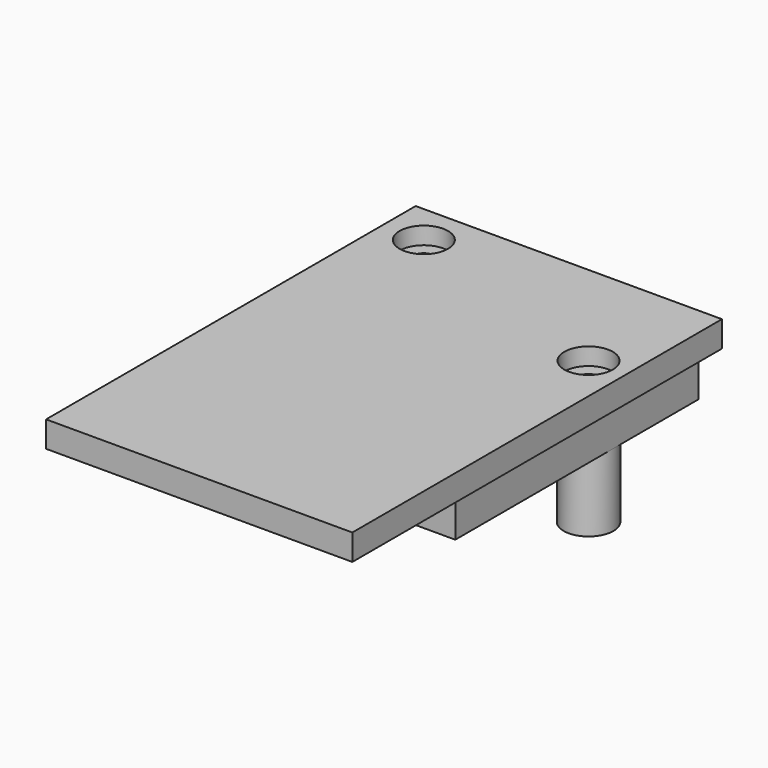
from build123d import *

# Parameters (mm, degrees)
SKETCH006_W          = 44.958
SKETCH006_H          = 67.818
PAD003_DEPTH         = 3.81
SKETCH007_W          = 41.1226
SKETCH007_H          = 63.881
PAD004_DEPTH         = 0.762
SKETCH008_R          = 4.022821
SKETCH008_R_2        = 1.5875
SKETCH008_R_3        = 3.643361
PAD005_DEPTH         = 17.018
PAD006_DEPTH         = 6.35
SKETCH010_R          = 1.5875
POCKET003_DEPTH      = 17.019
POCKET003_DEPTH_BACK = 3.811
SKETCH011_R          = 3.556
POCKET004_DEPTH      = 2.54


with BuildPart() as part:
    # Sketch006 (on DatumPlane) → Pad003 (new body)
    with BuildSketch(Plane.XY.offset(18.829)):
        with Locations((20.32, 31.75)):
            Rectangle(SKETCH006_W, SKETCH006_H)
    extrude(amount=PAD003_DEPTH)

    # Sketch007 (on DatumPlane) → Pad004 (join)
    with BuildSketch(Plane.XY.offset(18.829)):
        with Locations((20.3835, 31.7627)):
            Rectangle(SKETCH007_W, SKETCH007_H)
    extrude(amount=-PAD004_DEPTH)

    # Sketch008 (on DatumPlane) → Pad005 (join)
    with BuildSketch(Plane.XY.offset(18.829)):
        with Locations((3.819621, 59.680379)):
            Circle(SKETCH008_R)
        with Locations((3.819621, 59.680379)):
            Circle(SKETCH008_R_2, mode=Mode.SUBTRACT)
        with Locations((37.301439, 48.057955)):
            Circle(SKETCH008_R_3)
        with Locations((37.301439, 48.057955)):
            Circle(SKETCH008_R_2, mode=Mode.SUBTRACT)
    extrude(amount=-PAD005_DEPTH)

    # Sketch009 (on DatumPlane) → Pad006 (join)
    with BuildSketch(Plane.XY.offset(18.829)):
        Polygon((0, 63.5), (0, 19.05), (40.9448, 19.05), (40.9448, 63.7032), align=None)
    extrude(amount=-PAD006_DEPTH)

    # Sketch010 (on DatumPlane) → Pocket003 (cut, two sides)
    with BuildSketch(Plane.XY.offset(18.829)) as pocket003_sk:
        with Locations((3.819621, 59.680379)):
            Circle(SKETCH010_R)
        with Locations((37.301439, 48.057955)):
            Circle(SKETCH010_R)
    extrude(amount=-POCKET003_DEPTH, mode=Mode.SUBTRACT)
    extrude(pocket003_sk.sketch, amount=POCKET003_DEPTH_BACK, mode=Mode.SUBTRACT)

    # Sketch011 (on Face5 of Pocket003) → Pocket004 (cut)
    with BuildSketch(Plane.XY.offset(22.639)):
        with Locations((3.819621, 59.680379)):
            Circle(SKETCH011_R)
        with Locations((37.301439, 48.057955)):
            Circle(SKETCH011_R)
    extrude(amount=-POCKET004_DEPTH, mode=Mode.SUBTRACT)


solid = part.part
